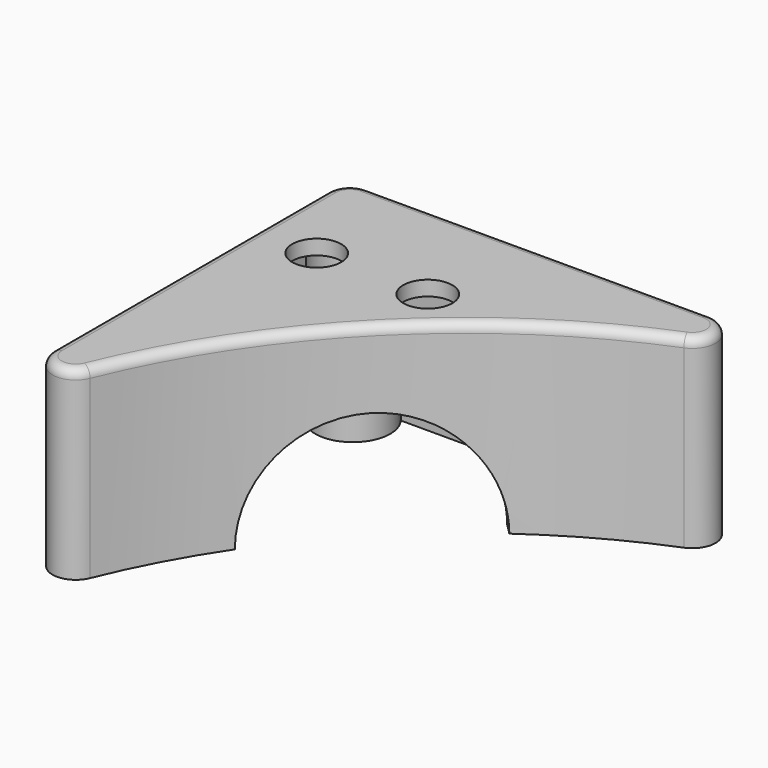
from build123d import *

# Parameters (mm, degrees)
F1_DEPTH  = 20
F2_R      = 2.5
F3_T      = -1.6
F4_R      = 4.05
F4_R_2    = 2.25
F5_DEPTH  = 20
F6_W      = 18.5
F6_H      = 6.8
F7_DEPTH  = 7.7
F9_R      = 11.6656058432
F10_DEPTH = 24.5
F11_R     = 3.5
F12_R     = 1
F4_R_3    = 2.65
F13_DEPTH = 25


with BuildPart() as f1:
    # F0 (on Top) → F1 (new body)
    with BuildSketch(Plane.XY):
        with BuildLine():
            ThreePointArc((-65, 0), (-45.9619407771, 45.9619407771), (0, 65))
            Line((0, 65), (-65, 65))
            Line((-65, 65), (-65, 60))
            Line((-65, 60), (-65, 41.2))
            Line((-65, 41.2), (-65, 0))
        make_face()
    extrude(amount=F1_DEPTH)

    # F2
    f2_edges = [f1.edges().sort_by_distance(p)[0] for p in [
        (-65, 0, 10),
        (0, 65, 10),
        (-65, 65, 10),
    ]]
    fillet(f2_edges, radius=F2_R)

    # F3
    f3_openings = [f1.faces().sort_by_distance(p)[0] for p in [
        (-51.245763, 51.245763, 0),
    ]]
    offset(amount=F3_T, openings=f3_openings)

    # F4 (on face) → F5 (join)
    with BuildSketch(Plane.XY.offset(20)):
        with Locations((-60.9282360965, 60.9400444936)):
            Circle(F4_R)
        with Locations((-60.9282360965, 60.9400444936)):
            Circle(F4_R_2, mode=Mode.SUBTRACT)
        with Locations((-60.8160617149, 34.0815317436)):
            Circle(F4_R)
        with Locations((-60.8160617149, 34.0815317436)):
            Circle(F4_R_2, mode=Mode.SUBTRACT)
        with Locations((-34.0815317436, 60.8160617149)):
            Circle(F4_R)
        with Locations((-34.0815317436, 60.8160617149)):
            Circle(F4_R_2, mode=Mode.SUBTRACT)
    extrude(amount=-F5_DEPTH)

    # F6 (on face) → F7 (cut)
    with BuildSketch(Plane(origin=(-65, 0, 0), x_dir=(0, -1, 0), z_dir=(-1, 0, 0))):
        with Locations((-47.55, 3.4)):
            Rectangle(F6_W, F6_H)
    extrude(amount=-F7_DEPTH, mode=Mode.SUBTRACT)

    # F9 (on face) → F10 (cut)
    with BuildSketch(Plane(origin=(-32.5, 32.5, 0), x_dir=(-0.7071067812, -0.7071067812, 0), z_dir=(-0.7071067812, 0.7071067812, 0))):
        with Locations((0.8223271579, 0)):
            Circle(F9_R)
    extrude(amount=F10_DEPTH, mode=Mode.SUBTRACT)

    # F11
    f11_edges = [f1.edges().sort_by_distance(p)[0] for p in [
        (-64.2, 38.3, 6.8),
        (-64.2, 56.8, 6.8),
    ]]
    fillet(f11_edges, radius=F11_R)

    # F12
    f12_edges = [f1.edges().sort_by_distance(p)[0] for p in [
        (-45.961941, 45.961941, 20),
        (-23.041831, 62.981125, 20),
        (-43.997549, 65, 20),
        (-62.981125, 23.041831, 20),
        (-65, 43.997549, 20),
    ]]
    fillet(f12_edges, radius=F12_R)

    # F4 (on face) → F13 (cut)
    with BuildSketch(Plane.XY.offset(20)):
        with Locations((-58.35, 52.85)):
            Circle(F4_R_3)
        with Locations((-46.35, 52.85)):
            Circle(F4_R_3)
    extrude(amount=-F13_DEPTH, mode=Mode.SUBTRACT)


solid = f1.part
